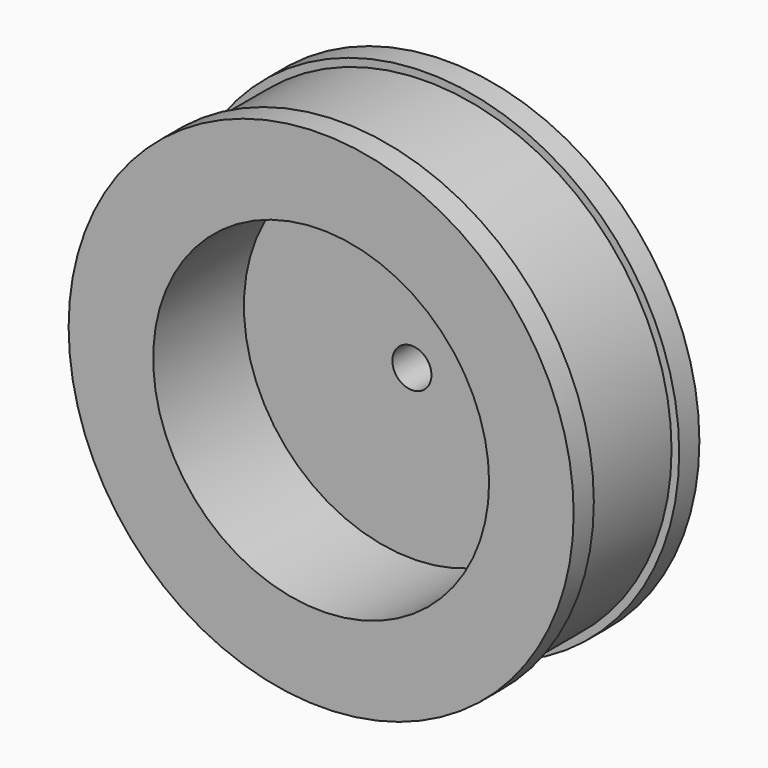
from build123d import *

# Parameters (mm, degrees)
SKETCH066_R            = 2.6
EXTRUDE065_DEPTH       = 10
SKETCH065_R            = 22.36068
EXTRUDE064_DEPTH       = 20
CUT036_PLACEMENT_ANGLE = 90


with BuildPart() as extrude065:
    # Sketch066 (on Face9 of Cut035) → Extrude065 (new body)
    with BuildSketch(Plane.XY.offset(5.82)):
        Circle(SKETCH066_R)
    extrude(amount=EXTRUDE065_DEPTH)


with BuildPart() as extrude065_1:
    # Extrude065 placement: moved
    add(extrude065.part.moved(Location((0, 0, -7.5))))


with BuildPart() as extrude064:
    # Sketch065 (on Face7 of Revolve003) → Extrude064 (new body)
    with BuildSketch(Plane.XY.offset(20.92)):
        Circle(SKETCH065_R)
    extrude(amount=EXTRUDE064_DEPTH)


with BuildPart() as extrude064_1:
    # Extrude064 placement: moved
    add(extrude064.part.moved(Location((0, 0, -15.1))))


with BuildPart() as obj1:
    # Sketch064 → Revolve003 (revolve)
    with BuildSketch(Plane.XZ):
        Polygon((0, 0), (33.62, 0), (33.62, 3.355495), (32.6, 3.355495), (32.6, 17.564505), (33.62, 17.564505), (33.62, 20.92), (0, 20.92), align=None)
    revolve(axis=Axis((0, 0, 0), (0, 0, 1)))

    # Cut035: cut Extrude064
    add(extrude064_1.part, mode=Mode.SUBTRACT)

    # Cut036: cut Extrude065
    add(extrude065_1.part, mode=Mode.SUBTRACT)


with BuildPart() as obj1_1:
    # Cut036 placement: moved
    add(obj1.part.moved(Location((69.3, 0, 9.45))).rotate(Axis((69.3, 0, 9.45), (1, 0, 0)), CUT036_PLACEMENT_ANGLE))


solid = obj1_1.part
